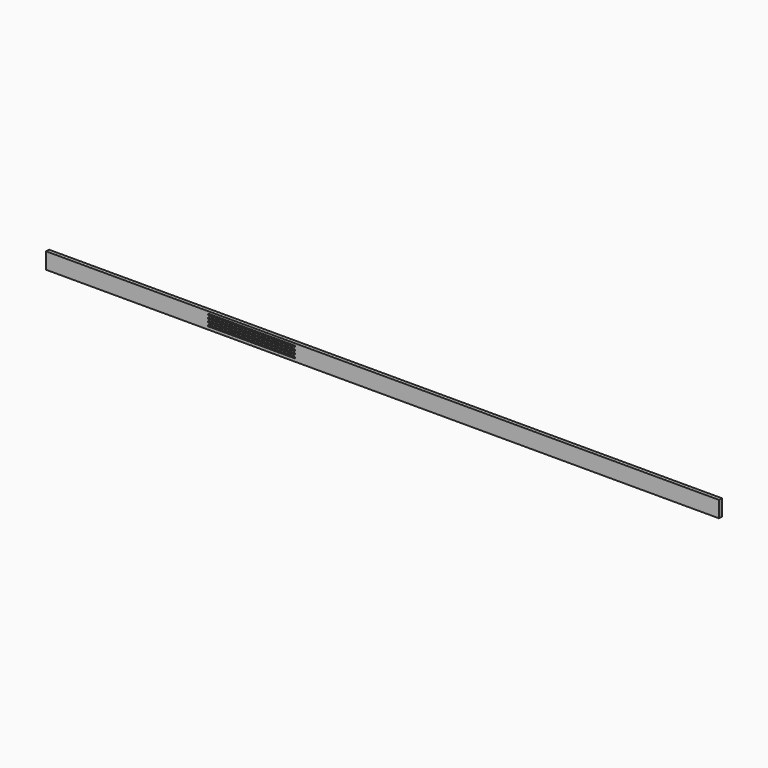
from build123d import *

# Parameters (mm, degrees)
F0_W     = 20
F0_H     = 90
F1_DEPTH = 3726
F3_DEPTH = 25


with BuildPart() as f1:
    # F0 (on Right) → F1 (new body)
    with BuildSketch(Plane.YZ):
        Rectangle(F0_W, F0_H)
    extrude(amount=F1_DEPTH)

    # F2 (on face) → F3 (cut)
    with BuildSketch(Plane.XZ.offset(10)):
        with BuildLine():
            Line((900, 25), (1375, 25))
            ThreePointArc((1375, 25), (1379, 29), (1375, 33))
            Line((1375, 33), (900, 33))
            ThreePointArc((900, 33), (896, 29), (900, 25))
        make_face()
        with BuildLine():
            ThreePointArc((1375, 7), (1379, 11), (1375, 15))
            Line((1375, 15), (900, 15))
            ThreePointArc((900, 15), (896, 11), (900, 7))
            Line((900, 7), (1375, 7))
        make_face()
        with BuildLine():
            ThreePointArc((1375, -11), (1379, -7), (1375, -3))
            Line((1375, -3), (900, -3))
            ThreePointArc((900, -3), (896, -7), (900, -11))
            Line((900, -11), (1375, -11))
        make_face()
        with BuildLine():
            ThreePointArc((1375, -29), (1379, -25), (1375, -21))
            Line((1375, -21), (900, -21))
            ThreePointArc((900, -21), (896, -25), (900, -29))
            Line((900, -29), (1375, -29))
        make_face()
    extrude(amount=-F3_DEPTH, mode=Mode.SUBTRACT)


solid = f1.part
